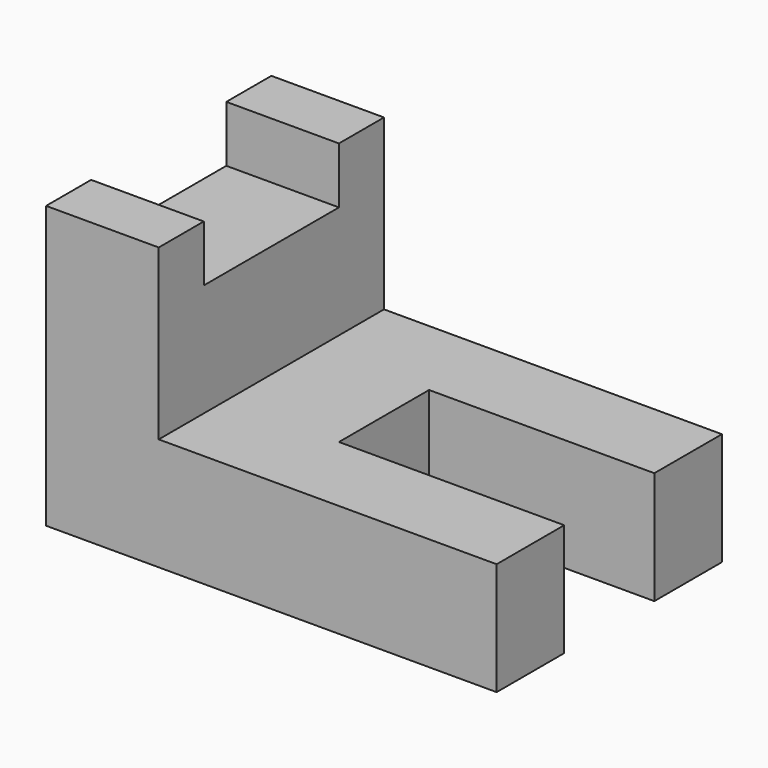
from build123d import *

# Parameters (mm, degrees)
F1_DEPTH = 50.8
F2_W     = 50.8
F2_H     = 127
F3_DEPTH = 76.2
F4_W     = 76.2
F4_H     = 25.4
F5_DEPTH = 50.8


with BuildPart() as f1:
    # F0 (on Top) → F1 (new body)
    with BuildSketch(Plane.XY):
        Polygon((0, 103.124011), (-203.2, 103.124011), (-203.2, -23.875989), (0, -23.875989), (0, 14.224011), (-101.6, 14.224011), (-101.6, 65.024011), (0, 65.024011), align=None)
    extrude(amount=F1_DEPTH)

    # F2 (on face) → F3 (join)
    with BuildSketch(Plane.XY.offset(50.8)):
        with Locations((-177.8, 39.624011)):
            Rectangle(F2_W, F2_H)
    extrude(amount=F3_DEPTH)

    # F4 (on face) → F5 (cut)
    with BuildSketch(Plane.YZ.offset(-152.4)):
        with Locations((39.624011, 114.3)):
            Rectangle(F4_W, F4_H)
    extrude(amount=-F5_DEPTH, mode=Mode.SUBTRACT)


solid = f1.part
